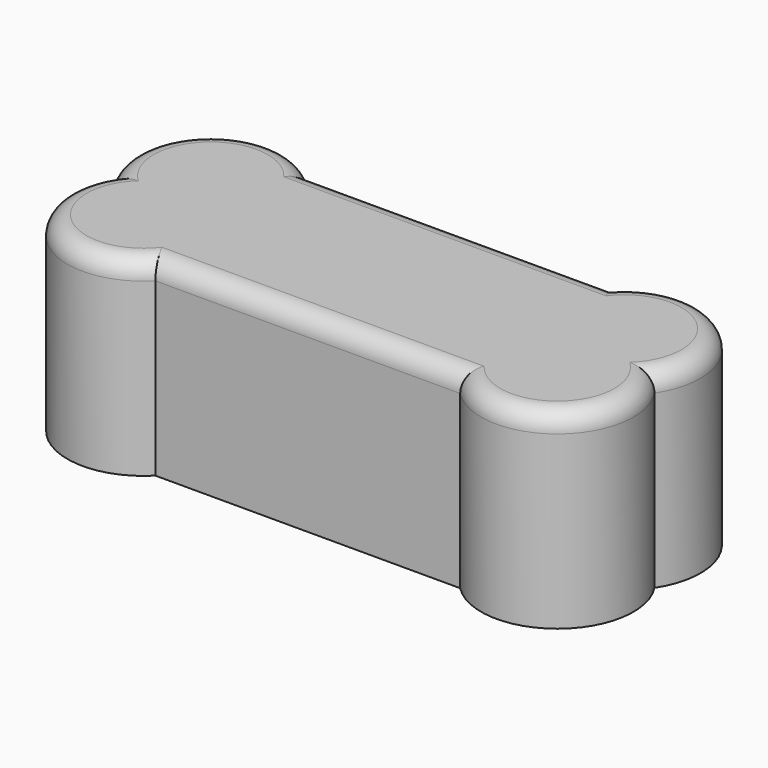
from build123d import *

# Parameters (mm, degrees)
F1_DEPTH = 10
F2_R     = 1


with BuildPart() as f1:
    # F0 (on Top) → F1 (new body)
    with BuildSketch(Plane.XY):
        with BuildLine():
            Line((0, 5), (-8, 5))
            ThreePointArc((-8, 5), (-13.368261, 5.313104), (-14.19723, 0))
            ThreePointArc((-14.19723, 0), (-13.368261, -5.313104), (-8, -5))
            Line((-8, -5), (0, -5))
            Line((0, -5), (8, -5))
            ThreePointArc((8, -5), (13.368261, -5.313104), (14.19723, 0))
            ThreePointArc((14.19723, 0), (13.368261, 5.313104), (8, 5))
            Line((8, 5), (0, 5))
        make_face()
    extrude(amount=F1_DEPTH)

    # F2
    f2_edges = [f1.edges().sort_by_distance(p)[0] for p in [
        (13.368261, 5.313104, 10),
        (0, 5, 10),
        (-13.368261, 5.313104, 10),
        (-13.368261, -5.313104, 10),
        (0, -5, 10),
        (13.368261, -5.313104, 10),
    ]]
    fillet(f2_edges, radius=F2_R)


solid = f1.part
